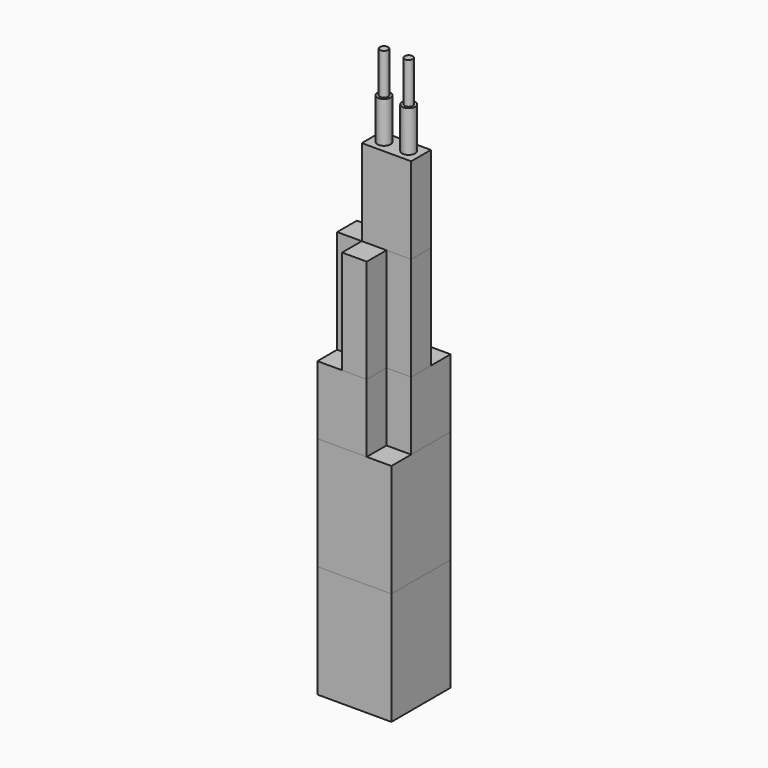
from build123d import *

# Parameters (mm, degrees)
F0_W      = 45
F0_H      = 45
F1_DEPTH  = 68.5
F2_DEPTH  = 68.5
F4_DEPTH  = 41.5
F5_W      = 15
F5_H      = 15
F6_DEPTH  = 63
F8_DEPTH  = 52.5
F9_R      = 4
F10_DEPTH = 25
F11_R     = 2.5
F12_DEPTH = 25


with BuildPart() as f1:
    # F0 (on Top) → F1 (new body)
    with BuildSketch(Plane.XY):
        with Locations((22.5, -22.5)):
            Rectangle(F0_W, F0_H)
    extrude(amount=F1_DEPTH)


with BuildPart() as f2:
    # F2 (new): a face of the model
    f2_faces = [f1.part.faces().sort_by_distance(p)[0] for p in [
        (22.5, -22.5, 68.5),
    ]]
    extrude(f2_faces, amount=F2_DEPTH)


with BuildPart() as f4:
    # F3 (on face) → F4 (new body)
    with BuildSketch(Plane.XY.offset(137)):
        Polygon((45, 0), (15, 0), (15, -15), (0, -15), (0, -45), (30, -45), (30, -30), (45, -30), align=None)
    extrude(amount=F4_DEPTH)


with BuildPart() as f6:
    # F5 (on face) → F6 (new body)
    with BuildSketch(Plane.XY.offset(178.5)):
        with Locations((22.5, -7.5)):
            Rectangle(F5_W, F5_H)
        with Locations((22.5, -22.5)):
            Rectangle(F5_W, F5_H)
        with Locations((7.5, -22.5)):
            Rectangle(F5_W, F5_H)
        with Locations((22.5, -37.5)):
            Rectangle(F5_W, F5_H)
        with Locations((37.5, -22.5)):
            Rectangle(F5_W, F5_H)
    extrude(amount=F6_DEPTH)


with BuildPart() as f8:
    # F7 (on face) → F8 (new body)
    with BuildSketch(Plane.XY.offset(241.5)):
        Polygon((45, -30), (45, -15), (30, -15), (15, -15), (15, -30), (30, -30), align=None)
    extrude(amount=F8_DEPTH)


with BuildPart() as f10:
    # F9 (on face) → F10 (new body)
    with BuildSketch(Plane.XY.offset(294)):
        with Locations((22.5, -22.5)):
            Circle(F9_R)
    extrude(amount=F10_DEPTH)

    # F11 (on face) → F12 (join)
    with BuildSketch(Plane.XY.offset(319)):
        with Locations((22.5, -22.5)):
            Circle(F11_R)
    extrude(amount=F12_DEPTH)


with BuildPart() as f10b:
    # F9 (on face) → F10, piece 2 (new body)
    with BuildSketch(Plane.XY.offset(294)):
        with Locations((37.5, -22.5)):
            Circle(F9_R)
    extrude(amount=F10_DEPTH)

    # F11 (on face) → F12, piece 2 (join)
    with BuildSketch(Plane.XY.offset(319)):
        with Locations((37.5, -22.5)):
            Circle(F11_R)
    extrude(amount=F12_DEPTH)


solid = Compound([f1.part, f2.part, f4.part, f6.part, f8.part, f10.part, f10b.part])
